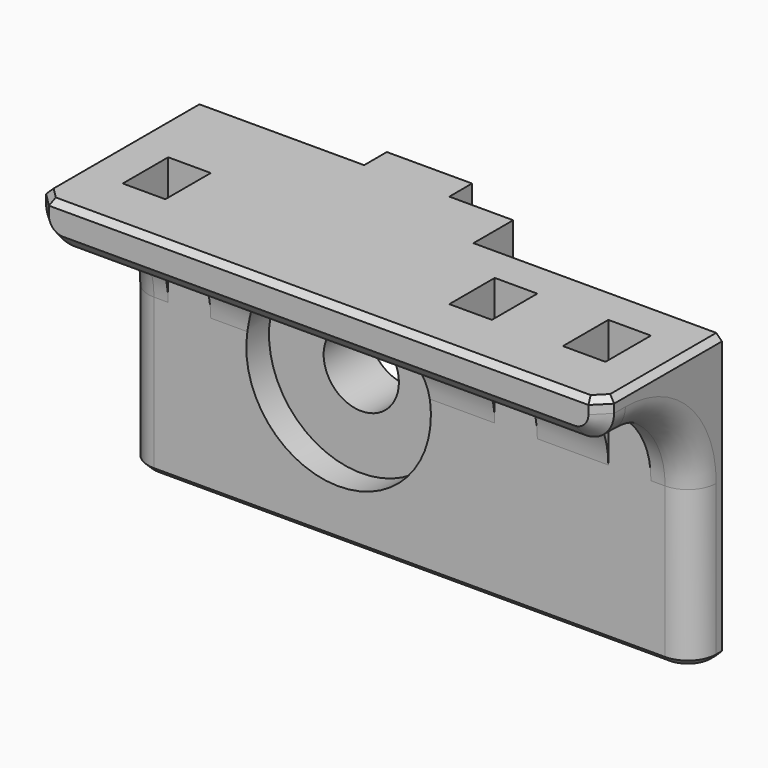
from build123d import *

# Parameters (mm, degrees)
BOX075_W                 = 18
BOX075_H                 = 4
BOX075_DEPTH             = 20
BOX073_W                 = 6
BOX073_H                 = 2
BOX073_DEPTH             = 6
CHAMFER022010022008_SIZE = 1.99
BOX074_W                 = 6
BOX074_H                 = 2
BOX074_DEPTH             = 6
BOX070_W                 = 3
BOX070_H                 = 2
BOX070_DEPTH             = 23
BOX071_W                 = 3
BOX071_H                 = 2
BOX071_DEPTH             = 23
BOX072_W                 = 3
BOX072_H                 = 2
BOX072_DEPTH             = 23
CYLINDER034_R            = 6.5
CYLINDER034_DEPTH        = 10
CYLINDER033_R            = 2.65
CYLINDER033_DEPTH        = 10
BOX068_W                 = 40
BOX068_H                 = 6
BOX068_DEPTH             = 20
BOX069_W                 = 40
BOX069_H                 = 8
BOX069_DEPTH             = 3
FILLET004_R              = 6
FILLET005_R              = 2
CHAMFER022010022005_SIZE = 1
CHAMFER022010022006_SIZE = 0.4
CHAMFER022010022007_SIZE = 2
FILLET006_R              = 1
CHAMFER022010022009_SIZE = 0.4


with BuildPart() as cube075:
    # Box075 → Box075 (new body)
    with BuildSketch(Plane(origin=(7.5, 2.5, 0), x_dir=(1, 0, 0), z_dir=(0, 0, 1))):
        with Locations((9, 2)):
            Rectangle(BOX075_W, BOX075_H)
    extrude(amount=BOX075_DEPTH)


with BuildPart() as chamfer022010022008:
    # Box073 → Box073 (new body)
    with BuildSketch(Plane(origin=(-3, 6, 0), x_dir=(1, 0, 0), z_dir=(0, 0, 1))):
        with Locations((3, 1)):
            Rectangle(BOX073_W, BOX073_H)
    extrude(amount=BOX073_DEPTH)

    # Chamfer022010022008
    chamfer022010022008_edges = [chamfer022010022008.edges().sort_by_distance(p)[0] for p in [
        (0, 8, 6),
    ]]
    chamfer(chamfer022010022008_edges, length=CHAMFER022010022008_SIZE)


with BuildPart() as cube074:
    # Box074 → Box074 (new body)
    with BuildSketch(Plane(origin=(-3, 6, 14), x_dir=(1, 0, 0), z_dir=(0, 0, 1))):
        with Locations((3, 1)):
            Rectangle(BOX074_W, BOX074_H)
    extrude(amount=BOX074_DEPTH)


with BuildPart() as cube070:
    # Box070 → Box070 (new body)
    with BuildSketch(Plane(origin=(19, -2, 0), x_dir=(1, 0, 0), z_dir=(0, 0, 1))):
        with Locations((1.5, 1)):
            Rectangle(BOX070_W, BOX070_H)
    extrude(amount=BOX070_DEPTH)


with BuildPart() as cube071:
    # Box071 → Box071 (new body)
    with BuildSketch(Plane(origin=(11, -2, 0), x_dir=(1, 0, 0), z_dir=(0, 0, 1))):
        with Locations((1.5, 1)):
            Rectangle(BOX071_W, BOX071_H)
    extrude(amount=BOX071_DEPTH)


with BuildPart() as fusion046:
    # Box072 → Box072 (new body)
    with BuildSketch(Plane(origin=(-12, -2, 0), x_dir=(1, 0, 0), z_dir=(0, 0, 1))):
        with Locations((1.5, 1)):
            Rectangle(BOX072_W, BOX072_H)
    extrude(amount=BOX072_DEPTH)

    # Fusion046: union Cube070, Cube071
    add(cube070.part)
    add(cube071.part)


with BuildPart() as cylinder034:
    # Cylinder034 → Cylinder034 (new body)
    with BuildSketch(Plane(origin=(0, 0, 10), x_dir=(1, 0, 0), z_dir=(0, -1, 0))):
        Circle(CYLINDER034_R)
    extrude(amount=CYLINDER034_DEPTH)


with BuildPart() as fusion044:
    # Cylinder033 → Cylinder033 (new body)
    with BuildSketch(Plane(origin=(0, 10, 10), x_dir=(1, 0, 0), z_dir=(0, -1, 0))):
        Circle(CYLINDER033_R)
    extrude(amount=CYLINDER033_DEPTH)

    # Fusion044: union Cylinder034
    add(cylinder034.part)


with BuildPart() as fusion044_1:
    # Fusion044 placement: moved
    add(fusion044.part.moved(Location((0, 2, 0))))


with BuildPart() as cube068:
    # Box068 → Box068 (new body)
    with BuildSketch(Plane(origin=(-15, 0, 0), x_dir=(1, 0, 0), z_dir=(0, 0, 1))):
        with Locations((20, 3)):
            Rectangle(BOX068_W, BOX068_H)
    extrude(amount=BOX068_DEPTH)


with BuildPart() as power_cord:
    # Box069 → Box069 (new body)
    with BuildSketch(Plane(origin=(-15, -8, 17), x_dir=(1, 0, 0), z_dir=(0, 0, 1))):
        with Locations((20, 4)):
            Rectangle(BOX069_W, BOX069_H)
    extrude(amount=BOX069_DEPTH)

    # Fusion045: union Cube068
    add(cube068.part)

    # Fillet004
    fillet004_edges = [power_cord.edges().sort_by_distance(p)[0] for p in [
        (5, 0, 17),
    ]]
    fillet(fillet004_edges, radius=FILLET004_R)

    # Fillet005
    fillet005_edges = [power_cord.edges().sort_by_distance(p)[0] for p in [
        (-15, -7, 17),
        (-15, -1.757359, 15.242641),
        (25, -7, 17),
        (25, -1.757359, 15.242641),
        (-15, 0, 5.5),
        (25, 0, 5.5),
    ]]
    fillet(fillet005_edges, radius=FILLET005_R)

    # Chamfer022010022005
    chamfer022010022005_edges = [power_cord.edges().sort_by_distance(p)[0] for p in [
        (-15, -8, 19.5),
        (5, -8, 17),
        (-14.414214, -8, 17.585786),
        (24.414214, -8, 17.585786),
        (25, -8, 19.5),
    ]]
    chamfer(chamfer022010022005_edges, length=CHAMFER022010022005_SIZE)

    # Chamfer022010022006
    chamfer022010022006_edges = [power_cord.edges().sort_by_distance(p)[0] for p in [
        (-15, -3.5, 20),
        (-14.5, -7.5, 20),
        (5, -8, 20),
        (25, -3.5, 20),
        (24.5, -7.5, 20),
        (-15, 3, 20),
        (25, 3, 20),
    ]]
    chamfer(chamfer022010022006_edges, length=CHAMFER022010022006_SIZE)

    # Cut024006004012005006: cut Fusion044
    add(fusion044_1.part, mode=Mode.SUBTRACT)

    # Cut024006004012005007: cut Fusion046
    add(fusion046.part, mode=Mode.SUBTRACT)

    # Chamfer022010022007
    chamfer022010022007_edges = [power_cord.edges().sort_by_distance(p)[0] for p in [
        (-10.5, -2, 20),
        (12.5, -2, 20),
        (20.5, -2, 20),
    ]]
    chamfer(chamfer022010022007_edges, length=CHAMFER022010022007_SIZE)

    # Fillet006
    fillet006_edges = [power_cord.edges().sort_by_distance(p)[0] for p in [
        (-10.5, -2, 15.472136),
        (20.5, -2, 15.472136),
        (12.5, -2, 15.472136),
    ]]
    fillet(fillet006_edges, radius=FILLET006_R)

    # Fusion047: union Chamfer022010022008, Cube074
    add(chamfer022010022008.part)
    add(cube074.part)

    # Chamfer022010022009
    chamfer022010022009_edges = [power_cord.edges().sort_by_distance(p)[0] for p in [
        (-12.5, 0, 0),
        (1, 0, 0),
        (22.5, 0, 0),
        (16.5, 0, 0),
        (-10.5, 0, 0),
        (-14.414214, 0.585786, 0),
        (-15, 4, 0),
        (12.5, 0, 0),
        (20.5, 0, 0),
        (25, 4, 0),
        (24.414214, 0.585786, 0),
    ]]
    chamfer(chamfer022010022009_edges, length=CHAMFER022010022009_SIZE)

    # Cut024006004012005008: cut Cube075
    add(cube075.part, mode=Mode.SUBTRACT)


solid = power_cord.part
